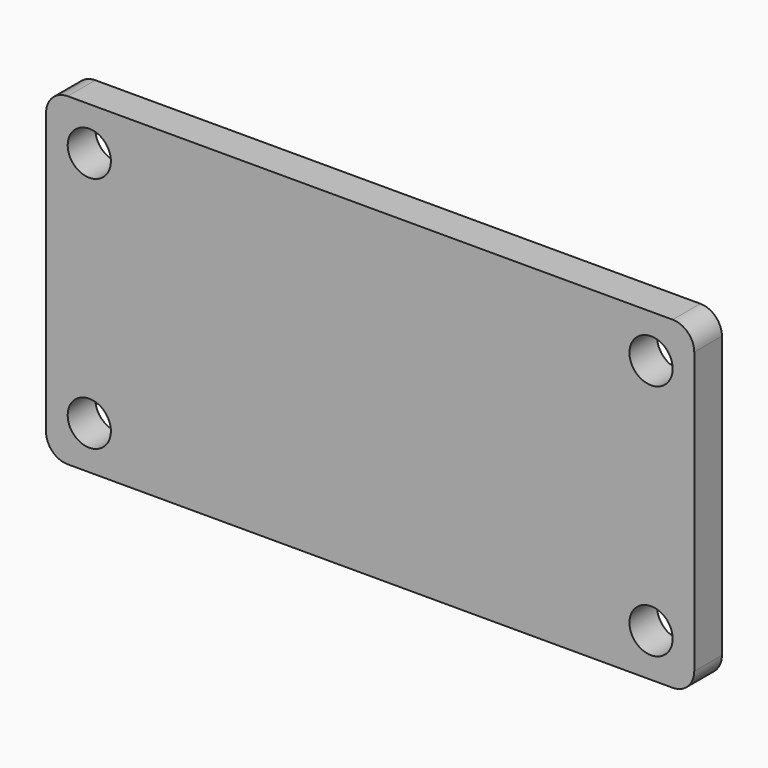
from build123d import *

# Parameters (mm, degrees)
F1_DEPTH = 1.6
F2_D     = 2


with BuildPart() as f1:
    # F0 (on Front) → F1 (new body)
    with BuildSketch(Plane.XZ):
        with BuildLine():
            Line((-14, -7.5), (14, -7.5))
            ThreePointArc((14, -7.5), (14.707107, -7.207107), (15, -6.5))
            Line((15, -6.5), (15, 6.5))
            ThreePointArc((15, 6.5), (14.707107, 7.207107), (14, 7.5))
            Line((14, 7.5), (-14, 7.5))
            ThreePointArc((-14, 7.5), (-14.707107, 7.207107), (-15, 6.5))
            Line((-15, 6.5), (-15, -6.5))
            ThreePointArc((-15, -6.5), (-14.707107, -7.207107), (-14, -7.5))
        make_face()
    extrude(amount=F1_DEPTH)

    # F2 (through all)
    with Locations(Plane(origin=(0, 0, 0), x_dir=(1, 0, 0), z_dir=(0, 1, 0))):
        with Locations((-13, 5.5), (-13, -5.5), (13, -5.5), (13, 5.5)):
            Hole(F2_D / 2)


solid = f1.part
